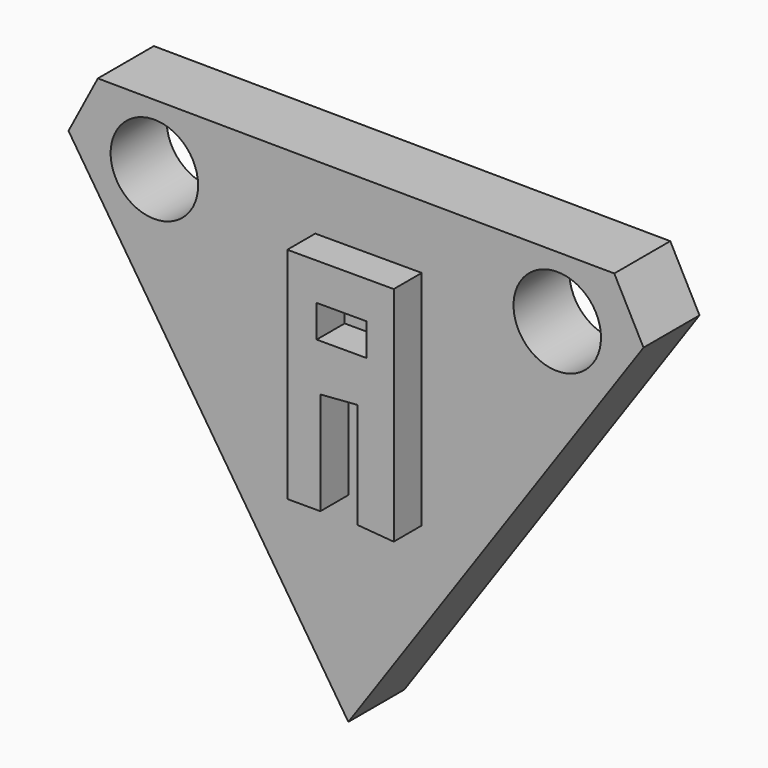
from build123d import *

# Parameters (mm, degrees)
F1_DEPTH = 5.08
F2_R     = 3.175
F3_DEPTH = 5.081
F4_W     = 3.626744
F4_H     = 2.346717
F5_DEPTH = 2.54


with BuildPart() as f1:
    # F0 (on Front) → F1 (new body)
    with BuildSketch(Plane.XZ):
        Polygon((-27.176633, 47.891983), (-29.307042, 43.846673), (-8.993444, 12.680604), (12.433227, 43.568405), (10.31143, 47.61824), align=None)
    extrude(amount=F1_DEPTH)

    # F2 (on face) → F3 (cut, through all)
    with BuildSketch(Plane.XZ.offset(5.08)):
        with Locations((6.172628, 43.203343)):
            Circle(F2_R)
        with Locations((-23.074293, 43.416909)):
            Circle(F2_R)
    extrude(amount=-F3_DEPTH, mode=Mode.SUBTRACT)

    # F4 (on face) → F5 (join)
    with BuildSketch(Plane.XZ.offset(5.08)):
        Polygon((-3.665128, 43.108057), (-11.393237, 43.108057), (-11.393237, 27.177891), (-8.993444, 27.177891), (-8.993444, 34.644719), (-6.305161, 34.846445), (-6.305161, 27.177891), (-3.665128, 26.964553), align=None)
        with Locations((-7.447374, 39.231487)):
            Rectangle(F4_W, F4_H, mode=Mode.SUBTRACT)
    extrude(amount=F5_DEPTH)


solid = f1.part
